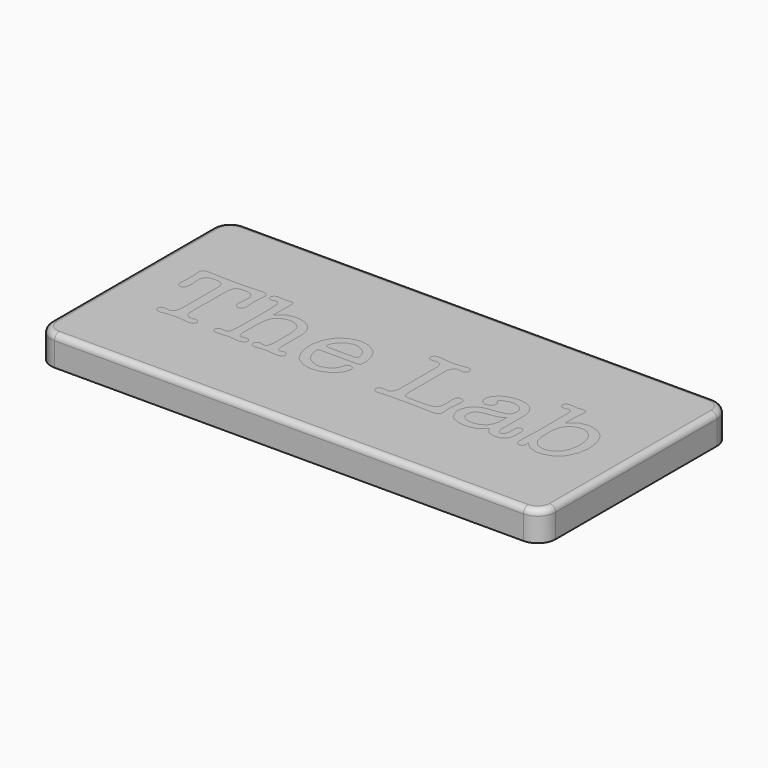
from build123d import *

# Parameters (mm, degrees)
F1_W     = 85
F1_H     = 40
F2_DEPTH = 5
F3_DEPTH = 3
F4_R     = 3
F5_R     = 1


with BuildPart() as f2:
    # F1 (on Top) → F2 (new body)
    with BuildSketch(Plane.XY):
        Rectangle(F1_W, F1_H)
    extrude(amount=-F2_DEPTH)

    # F4
    f4_edges = [f2.edges().sort_by_distance(p)[0] for p in [
        (-42.5, -20, -2.5),
        (-42.5, 20, -2.5),
        (42.5, -20, -2.5),
        (42.5, 20, -2.5),
    ]]
    fillet(f4_edges, radius=F4_R)

    # F5
    f5_edges = [f2.edges().sort_by_distance(p)[0] for p in [
        (0, -20, 0),
        (-41.62132, -19.12132, 0),
        (41.62132, -19.12132, 0),
        (-42.5, 0, 0),
        (42.5, 0, 0),
        (-41.62132, 19.12132, 0),
        (41.62132, 19.12132, 0),
        (0, 20, 0),
    ]]
    fillet(f5_edges, radius=F5_R)


with BuildPart() as f3:
    # F0 (on Top) → F3 (new body)
    with BuildSketch(Plane.XY):
        Polygon((-29.441038, -4.067277), (-29.441038, -3.799942), (-29.421734, 2.67683), (-29.36527, 4.009415), (-29.359733, 4.123766), (-29.073094, 4.942332), (-29.022116, 4.990541), (-28.97251, 5.040198), (-28.265577, 5.286858), (-28.012009, 5.286858), (-27.478711, 5.286858), (-27.197583, 5.286858), (-26.350112, 4.958867), (-25.973913, 4.218864), (-25.973913, 3.972179), (-25.973913, 3.746195), (-26.022122, 3.06545), (-26.031749, 2.952445), (-26.041426, 2.840838), (-26.088264, 2.187626), (-26.088264, 1.932711), (-26.088264, 1.754937), (-25.907771, 1.21887), (-25.501219, 0.980465), (-25.364796, 0.980465), (-25.225629, 0.980465), (-24.808078, 1.176147), (-24.622023, 1.615745), (-24.622023, 1.76182), (-24.622023, 1.976806), (-24.685422, 2.62034), (-24.697842, 2.752649), (-24.707469, 2.854579), (-24.755704, 3.425114), (-24.755704, 3.648329), (-24.755704, 3.857828), (-24.746052, 3.957015), (-24.659234, 4.87619), (-24.650979, 4.961636), (-24.644071, 5.048453), (-24.60277, 5.490794), (-24.60277, 5.667172), (-24.60277, 5.70578), (-24.60277, 5.853201), (-24.841124, 6.291428), (-25.377216, 6.485738), (-25.554991, 6.485738), (-25.827812, 6.485738), (-26.645006, 6.438875), (-26.774546, 6.429248), (-26.920622, 6.419596), (-27.703323, 6.371361), (-28.012009, 6.371361), (-28.289021, 6.36585), (-29.351478, 6.343802), (-29.876521, 6.33415), (-30.051527, 6.33415), (-32.223304, 6.371361), (-32.468591, 6.378245), (-33.347787, 6.401664), (-33.675752, 6.409944), (-33.784616, 6.409944), (-33.947227, 6.419596), (-34.581109, 6.454064), (-34.91324, 6.467805), (-35.023476, 6.467805), (-35.159899, 6.467805), (-35.566426, 6.268009), (-35.746944, 5.817387), (-35.746944, 5.667172), (-35.729037, 5.529377), (-35.684943, 4.978171), (-35.67115, 4.810049), (-35.665639, 4.724603), (-35.632568, 4.067251), (-35.632568, 3.81922), (-35.632568, 3.715868), (-35.647732, 3.40581), (-35.680802, 2.810485), (-35.690454, 2.657526), (-35.697338, 2.556942), (-35.72764, 2.015363), (-35.72764, 1.800428), (-35.72764, 1.63642), (-35.552634, 1.143076), (-35.155759, 0.923976), (-35.023476, 0.923976), (-34.884284, 0.923976), (-34.466733, 1.224382), (-34.280704, 1.899615), (-34.280704, 2.124227), (-34.280704, 2.237232), (-34.295867, 2.572131), (-34.298636, 2.599665), (-34.375801, 3.305226), (-34.379941, 3.334156), (-34.39508, 3.791687), (-34.39508, 3.9529), (-34.39508, 4.203725), (-34.051951, 4.953381), (-33.280248, 5.286858), (-33.022565, 5.286858), (-32.432752, 5.286858), (-32.172326, 5.286858), (-31.389574, 4.949215), (-31.040959, 4.188562), (-31.040959, 3.933596), (-31.023027, 0.828904), (-31.023027, -0.790321), (-31.040959, -2.467381), (-31.040959, -3.799942), (-31.040959, -4.067277), (-31.28071, -4.87205), (-31.816777, -5.228971), (-31.994551, -5.228971), (-32.096507, -5.228971), (-32.401078, -5.189017), (-32.450684, -5.182108), (-32.501662, -5.173853), (-32.793813, -5.133873), (-32.908189, -5.133873), (-33.023937, -5.133873), (-33.367066, -5.285461), (-33.518653, -5.628589), (-33.518653, -5.744362), (-33.518653, -5.868365), (-33.309204, -6.243193), (-32.837907, -6.409944), (-32.679437, -6.409944), (-32.547128, -6.409944), (-32.534733, -6.405804), (-32.447916, -6.392037), (-32.413473, -6.392037), (-31.461253, -6.258357), (-31.368898, -6.24459), (-30.503495, -6.181192), (-30.183811, -6.181192), (-29.906824, -6.181192), (-29.074466, -6.24459), (-28.984905, -6.258357), (-28.050592, -6.392037), (-28.021686, -6.392037), (-27.933472, -6.405804), (-27.916937, -6.409944), (-27.802561, -6.409944), (-27.642693, -6.409944), (-27.160398, -6.243193), (-26.945412, -5.868365), (-26.945412, -5.744362), (-26.945412, -5.643753), (-27.096999, -5.344719), (-27.127302, -5.314417), (-27.157604, -5.284089), (-27.44978, -5.133873), (-27.555876, -5.133873), (-27.657857, -5.133873), (-27.962403, -5.173853), (-28.012009, -5.182108), (-28.062987, -5.189017), (-28.355163, -5.228971), (-28.469514, -5.228971), (-28.6528, -5.228971), (-29.198494, -4.87205), align=None)
        Polygon((-20.449337, 2.257908), (-20.373569, 5.952439), (-20.373569, 5.991022), (-20.373569, 6.109538), (-20.483805, 6.462319), (-20.730464, 6.619392), (-20.811769, 6.619392), (-20.90961, 6.619392), (-21.200364, 6.58909), (-21.24997, 6.582181), (-21.300973, 6.57667), (-21.608288, 6.543624), (-21.726779, 6.543624), (-21.907297, 6.543624), (-22.447504, 6.57667), (-22.506737, 6.582181), (-22.599091, 6.591859), (-22.993223, 6.638696), (-23.154437, 6.638696), (-23.283977, 6.638696), (-23.669803, 6.480226), (-23.707039, 6.448501), (-23.745622, 6.416827), (-23.935766, 6.105398), (-23.935766, 5.991022), (-23.935766, 5.878043), (-23.774552, 5.534889), (-23.410723, 5.38193), (-23.288092, 5.38193), (-23.195788, 5.38193), (-22.914661, 5.428767), (-22.869169, 5.438445), (-22.825075, 5.448071), (-22.570135, 5.496306), (-22.469551, 5.496306), (-22.384106, 5.496306), (-22.126397, 5.308905), (-21.955531, 4.869307), (-21.936253, 4.743882), (-21.916974, 4.618482), (-21.850807, 3.465068), (-21.821851, 1.716354), (-21.821851, 1.133424), (-21.841155, -2.277186), (-21.84527, -2.574874), (-21.882506, -3.764102), (-21.947276, -4.550969), (-21.963812, -4.64881), (-21.981719, -4.745279), (-22.119539, -5.082896), (-22.311081, -5.228971), (-22.374454, -5.228971), (-22.475063, -5.228971), (-22.776866, -5.180736), (-22.830587, -5.172481), (-22.849891, -5.165573), (-23.103459, -5.133873), (-23.193019, -5.133873), (-23.329443, -5.133873), (-23.735944, -5.275834), (-23.916462, -5.598287), (-23.916462, -5.70578), (-23.916462, -5.833923), (-23.722203, -6.219774), (-23.283977, -6.392037), (-23.136504, -6.392037), (-22.925659, -6.392037), (-22.291777, -6.327267), (-22.165005, -6.314872), (-22.069933, -6.30522), (-21.493912, -6.258357), (-21.269249, -6.258357), (-20.990916, -6.258357), (-20.1517, -6.320384), (-20.030415, -6.33415), (-19.942226, -6.343802), (-19.430975, -6.392037), (-19.231153, -6.392037), (-19.074054, -6.392037), (-18.602757, -6.223914), (-18.391937, -5.849087), (-18.391937, -5.725058), (-18.391937, -5.613451), (-18.544896, -5.281346), (-18.887999, -5.133873), (-19.002426, -5.133873), (-19.093358, -5.133873), (-19.366205, -5.189017), (-19.411671, -5.201412), (-19.458534, -5.212436), (-19.734149, -5.267554), (-19.84027, -5.267554), (-19.932599, -5.267554), (-20.208164, -5.033289), (-20.377683, -4.488967), (-20.392847, -4.334612), (-20.396987, -4.305681), (-20.407986, -3.933622), (-20.412126, -3.290062), (-20.412126, -3.076473), (-20.412126, -2.715412), (-20.409357, -2.669946), (-20.392847, -2.428799), (-20.392847, -2.333701), (-20.373569, -0.962558), (-20.3708, -0.702107), (-20.24126, 0.386512), (-19.958761, 1.187196), (-19.878827, 1.304315), (-19.764451, 1.476578), (-18.988634, 2.07739), (-18.012969, 2.333701), (-17.687747, 2.333701), (-17.392879, 2.333701), (-16.506749, 2.087042), (-15.837052, 1.508252), (-15.744723, 1.342898), (-15.681325, 1.232662), (-15.459481, 0.357581), (-15.362987, -0.860577), (-15.362987, -1.26713), (-15.362987, -2.295119), (-15.382291, -3.115056), (-15.386456, -3.225292), (-15.401569, -3.786175), (-15.401569, -4.010787), (-15.40571, -4.216121), (-15.558668, -4.938192), (-15.885262, -5.24825), (-15.992754, -5.24825), (-16.067176, -5.24825), (-16.28902, -5.20004), (-16.316604, -5.19176), (-16.364839, -5.175225), (-16.688689, -5.096688), (-16.81132, -5.096688), (-16.920185, -5.096688), (-17.245406, -5.238623), (-17.278452, -5.267554), (-17.311548, -5.295113), (-17.478273, -5.581752), (-17.478273, -5.686476), (-17.478273, -5.803621), (-17.288129, -6.157773), (-17.249546, -6.190844), (-17.21231, -6.223914), (-16.820972, -6.392037), (-16.67764, -6.392037), (-16.592194, -6.392037), (-16.335908, -6.363081), (-15.820492, -6.295568), (-15.686837, -6.277661), (-15.642742, -6.270777), (-15.116327, -6.239078), (-14.924811, -6.239078), (-14.635378, -6.239078), (-13.763092, -6.317615), (-13.629437, -6.33415), (-13.550875, -6.343802), (-13.087858, -6.392037), (-12.905969, -6.392037), (-12.735077, -6.392037), (-12.221083, -6.233566), (-11.992331, -5.879389), (-11.992331, -5.762269), (-11.992331, -5.643753), (-12.168734, -5.290972), (-12.565609, -5.133873), (-12.69652, -5.133873), (-12.768174, -5.133873), (-12.983159, -5.149037), (-13.001041, -5.153177), (-13.049301, -5.165573), (-13.330377, -5.228971), (-13.439242, -5.228971), (-13.523316, -5.228971), (-13.774115, -4.990567), (-13.922934, -4.435221), (-13.935354, -4.27675), (-13.939495, -4.257446), (-13.949121, -3.910178), (-13.953287, -3.256991), (-13.953287, -3.039262), (-13.953287, 0.142621), (-13.953287, 0.487147), (-14.201318, 1.519301), (-14.780082, 2.445334), (-14.944065, 2.599665), (-15.109444, 2.755392), (-16.097504, 3.301111), (-17.205427, 3.533978), (-17.573396, 3.533978), (-17.919243, 3.533978), (-18.954166, 3.303854), (-19.05889, 3.257017), (-19.16364, 3.211525), (-20.32254, 2.379193), align=None)
        Polygon((-2.581656, -0.934974), (-2.581656, -0.714502), (-2.581656, -0.292811), (-2.872486, 0.97221), (-3.550412, 2.133905), (-3.743452, 2.333701), (-3.937762, 2.533523), (-5.06349, 3.233572), (-6.288532, 3.533978), (-6.696456, 3.533978), (-7.15391, 3.533978), (-8.525256, 3.172943), (-9.762744, 2.328215), (-9.97204, 2.08567), (-10.18286, 1.844523), (-10.916082, 0.419608), (-11.230254, -1.159637), (-11.230254, -1.686052), (-11.230254, -2.194535), (-10.935386, -3.721405), (-10.24636, -5.071872), (-10.049256, -5.296484), (-9.852152, -5.519725), (-8.662924, -6.302451), (-7.316724, -6.638696), (-6.867398, -6.638696), (-6.4897, -6.638696), (-5.35432, -6.397549), (-4.22021, -5.836691), (-4.00939, -5.676824), (-3.79984, -5.51561), (-3.066796, -4.646066), (-2.752598, -3.768242), (-2.752598, -3.476092), (-2.752598, -3.339668), (-2.928874, -2.933141), (-3.325876, -2.752649), (-3.456686, -2.752649), (-3.558794, -2.752649), (-3.86334, -2.867), (-4.064508, -3.132963), (-4.086606, -3.210154), (-4.257294, -3.762731), (-4.293108, -3.879875), (-4.588002, -4.404893), (-5.04698, -4.84726), (-5.162804, -4.924425), (-5.278628, -5.000219), (-6.313424, -5.38193), (-6.696456, -5.38193), (-6.99008, -5.38193), (-7.867904, -5.143525), (-8.687816, -4.58818), (-8.829802, -4.429709), (-8.973058, -4.269842), (-9.473184, -3.357601), (-9.686798, -2.375052), (-9.686798, -2.048459), (-9.686798, -1.99611), (-9.623552, -1.840382), (-9.611106, -1.829333), (-9.59866, -1.816938), (-9.368536, -1.76182), (-9.287256, -1.76182), (-3.229356, -1.76182), (-3.095752, -1.76182), (-2.693416, -1.626768), (-2.676652, -1.600606), (-2.661666, -1.573022), align=None)
        Polygon((-9.496552, -0.285953), (-9.496552, -0.219786), (-9.496552, 0.007569), (-9.277604, 0.688315), (-8.766302, 1.375969), (-8.620252, 1.504112), (-8.474202, 1.633652), (-7.696962, 2.084273), (-6.932168, 2.275815), (-6.677152, 2.275815), (-6.437376, 2.275815), (-5.715254, 2.091182), (-5.01396, 1.657096), (-4.88569, 1.533042), (-4.758944, 1.410437), (-4.315206, 0.724154), (-4.12369, 0.017221), (-4.12369, -0.219786), (-4.12369, -0.285953), (-4.425442, -0.48575), (-4.524756, -0.48575), (-9.077706, -0.48575), (-9.182608, -0.48575), align=None, mode=Mode.SUBTRACT)
        Polygon((7.286244, -3.795801), (7.286244, -3.572561), (7.286244, 3.857828), (7.286244, 4.122395), (7.529068, 4.916145), (8.07466, 5.267554), (8.257794, 5.267554), (8.351774, 5.267554), (8.635746, 5.235829), (8.65886, 5.228971), (8.712708, 5.219319), (9.043416, 5.172481), (9.172956, 5.172481), (9.269222, 5.172481), (9.5631, 5.322672), (9.592056, 5.352999), (9.619488, 5.383301), (9.762744, 5.689219), (9.762744, 5.800852), (9.762744, 5.926252), (9.54786, 6.30108), (9.06526, 6.467805), (8.905494, 6.467805), (8.849106, 6.467805), (8.683752, 6.452667), (8.65886, 6.448501), (7.78256, 6.33415), (7.661402, 6.319012), (6.867652, 6.239078), (6.563106, 6.239078), (6.287262, 6.239078), (5.463032, 6.319012), (5.324094, 6.33415), (4.31546, 6.448501), (4.28625, 6.452667), (4.100322, 6.467805), (4.028694, 6.467805), (3.874516, 6.467805), (3.414268, 6.30108), (3.210306, 5.926252), (3.210306, 5.800852), (3.210306, 5.697474), (3.352038, 5.383301), (3.380994, 5.352999), (3.40868, 5.322672), (3.695446, 5.172481), (3.800094, 5.172481), (3.915918, 5.172481), (4.264406, 5.219319), (4.31546, 5.228971), (4.337558, 5.235829), (4.614418, 5.267554), (4.715002, 5.267554), (4.896866, 5.267554), (5.442712, 4.916145), (5.686552, 4.122395), (5.686552, 3.857828), (5.686552, -3.782035), (5.686552, -4.04937), (5.442712, -4.852772), (4.896866, -5.209667), (4.715002, -5.209667), (4.308602, -5.169713), (4.257294, -5.162829), (4.206494, -5.154549), (3.914394, -5.114595), (3.800094, -5.114595), (3.688334, -5.114595), (3.35788, -5.266182), (3.210306, -5.609311), (3.210306, -5.725058), (3.210306, -5.853227), (3.40868, -6.237681), (3.85953, -6.409944), (4.00939, -6.409944), (4.139184, -6.409944), (4.529074, -6.378245), (4.59105, -6.372733), (4.65328, -6.36585), (4.983734, -6.33415), (5.114544, -6.33415), (5.292344, -6.327267), (6.256782, -6.295568), (6.638544, -6.295568), (9.687052, -6.295568), (11.116056, -6.314872), (11.274552, -6.317615), (12.44854, -6.349314), (12.525756, -6.353454), (12.640056, -6.358966), (13.183108, -6.392037), (13.402056, -6.392037), (13.584174, -6.392037), (14.129766, -6.177051), (14.373606, -5.693359), (14.373606, -5.533517), (14.373606, -5.357139), (14.332458, -4.830724), (14.3256, -4.743907), (14.317218, -4.655693), (14.27861, -4.149954), (14.27861, -3.9529), (14.27861, -3.750335), (14.3256, -3.145384), (14.335252, -3.076473), (14.468856, -2.104974), (14.47165, -2.082927), (14.487906, -1.833474), (14.487906, -1.743913), (14.487906, -1.600606), (14.286738, -1.172007), (13.836396, -0.981862), (13.687552, -0.981862), (13.561822, -0.981862), (13.185902, -1.189939), (13.020294, -1.661211), (13.020294, -1.819707), (13.020294, -2.01262), (13.052044, -2.59141), (13.059156, -2.715412), (13.061696, -2.778811), (13.078206, -3.214268), (13.078206, -3.381019), (13.078206, -3.602888), (12.968224, -4.26847), (12.713208, -4.741139), (12.640056, -4.800397), (12.567158, -4.858283), (11.982704, -5.064989), (11.160252, -5.153177), (10.887202, -5.153177), (9.210294, -5.153177), (9.010396, -5.153177), (8.41248, -5.143525), (8.008366, -5.120107), (7.9629, -5.114595), (7.916418, -5.107711), (7.542784, -4.93268), (7.515352, -4.905121), (7.47649, -4.869307), (7.34314, -4.46692), align=None)
        Polygon((23.600918, -6.562903), (23.91664, -6.562903), (24.124666, -6.562903), (24.751538, -6.448527), (25.355296, -6.105398), (25.723088, -5.533517), (25.855422, -4.934077), (25.85974, -4.734255), (25.879044, -3.648354), (25.879044, -3.553282), (25.879044, -3.381019), (25.721818, -2.865628), (25.367488, -2.638273), (25.250394, -2.638273), (25.138888, -2.638273), (24.806656, -2.78986), (24.660606, -3.132963), (24.660606, -3.248711), (24.660606, -4.181653), (24.660606, -4.409034), (24.492712, -5.095291), (24.117808, -5.401234), (23.993856, -5.401234), (23.88616, -5.401234), (23.563834, -5.233111), (23.36419, -4.844491), (23.346156, -4.734255), (23.339044, -4.705325), (23.31593, -4.375963), (23.307294, -3.830269), (23.307294, -3.648354), (23.307294, 0.200508), (23.307294, 0.565709), (23.089616, 1.659839), (22.43963, 2.700249), (21.356066, 3.325901), (20.219416, 3.533978), (19.840194, 3.533978), (19.491706, 3.533978), (18.447258, 3.343834), (17.45361, 2.898699), (17.278858, 2.771927), (17.102328, 2.645156), (16.485108, 1.934083), (16.22171, 1.191311), (16.22171, 0.94328), (16.22171, 0.74897), (16.498824, 0.1619), (16.555212, 0.104064), (16.61033, 0.047549), (17.17548, -0.237719), (17.383252, -0.237719), (17.544796, -0.237719), (18.030952, -0.03241), (18.077688, 0.008941), (18.123408, 0.050292), (18.354802, 0.480263), (18.354802, 0.637337), (18.354802, 0.791693), (18.13179, 1.253338), (18.087594, 1.285011), (18.058638, 1.304315), (17.916652, 1.429715), (17.916652, 1.476578), (17.916652, 1.568882), (18.153634, 1.844523), (18.201894, 1.876196), (18.325846, 1.95613), (19.400774, 2.353005), (19.80184, 2.353005), (20.016724, 2.353005), (20.665694, 2.241398), (21.225256, 1.979549), (21.316188, 1.905127), (21.40585, 1.83073), (21.722588, 1.374572), (21.85924, 0.850951), (21.85924, 0.675945), (21.85924, 0.503682), (21.737828, -0.013106), (21.45411, -0.396189), (21.3741, -0.447167), (21.293074, -0.49817), (20.609306, -0.718668), (19.553682, -0.895045), (19.287744, -0.923976), (19.100546, -0.946023), (18.352262, -1.045235), (17.854422, -1.127912), (17.7927, -1.143076), (17.730724, -1.156868), (16.991838, -1.466926), (16.906494, -1.515161), (16.680434, -1.637792), (15.892272, -2.46601), (15.554706, -3.495396), (15.554706, -3.838524), (15.554706, -4.125163), (15.78483, -4.986426), (16.323818, -5.749874), (16.477996, -5.876646), (16.631158, -6.003417), (17.555718, -6.447155), (18.597372, -6.638696), (18.94459, -6.638696), (19.393916, -6.638696), (20.744434, -6.281801), (21.830284, -5.448071), (21.992844, -5.209667), (22.05228, -5.434305), (22.65426, -6.223914), align=None)
        Polygon((21.822156, -1.420063), (21.802852, -2.771927), (21.798534, -2.974492), (21.604224, -3.8592), (21.171662, -4.570273), (21.05025, -4.686021), (20.927568, -4.801768), (20.180808, -5.206924), (19.324828, -5.38193), (19.04111, -5.38193), (18.839688, -5.38193), (18.237454, -5.277206), (17.708372, -5.031918), (17.621758, -4.963008), (17.533366, -4.892726), (17.22755, -4.46692), (17.09674, -3.980459), (17.09674, -3.819246), (17.09674, -3.663518), (17.231868, -3.197733), (17.639538, -2.723718), (18.317718, -2.3971), (19.028918, -2.241398), (19.26844, -2.21935), (19.468338, -2.200046), (20.285456, -2.095297), (20.85721, -1.978177), (20.93595, -1.953387), (21.013166, -1.927174), (21.751544, -1.483436), align=None, mode=Mode.SUBTRACT)
        Polygon((28.92044, 5.574868), (28.946602, 5.838063), (28.946602, 6.105398), (28.946602, 6.205982), (28.8417, 6.506413), (28.605988, 6.638696), (28.527502, 6.638696), (28.399232, 6.638696), (28.018994, 6.583604), (27.955494, 6.572555), (27.892502, 6.561531), (27.51328, 6.505042), (27.365706, 6.505042), (27.2542, 6.505042), (26.920952, 6.538087), (26.869644, 6.543624), (26.41219, 6.600114), (26.386028, 6.604229), (26.127202, 6.619392), (26.031952, 6.619392), (25.888696, 6.619392), (25.459944, 6.462319), (25.269952, 6.109538), (25.269952, 5.991022), (25.269952, 5.878043), (25.430988, 5.534889), (25.794716, 5.38193), (25.917652, 5.38193), (25.998678, 5.38193), (26.244296, 5.413604), (26.279856, 5.419141), (26.353008, 5.432908), (26.650696, 5.496306), (26.774902, 5.496306), (26.876756, 5.496306), (27.182572, 5.289601), (27.203146, 5.24825), (27.223974, 5.206924), (27.342338, 4.414545), (27.346656, 4.296029), (27.38374, -0.790321), (27.346656, -2.715412), (27.288744, -4.181653), (27.28468, -4.26433), (27.26944, -4.880331), (27.26944, -5.114595), (27.265122, -5.136642), (27.251406, -5.415001), (27.251406, -5.51561), (27.251406, -5.693359), (27.41676, -6.229426), (27.79141, -6.467831), (27.91714, -6.467831), (28.040838, -6.467831), (28.417266, -6.295568), (28.58389, -5.909716), (28.58389, -5.781548), (28.58389, -5.652033), (28.520644, -5.263413), (28.508452, -5.172481), (28.654502, -5.416372), (29.656278, -6.270777), (30.923738, -6.638696), (31.347156, -6.638696), (31.799022, -6.638696), (33.157668, -6.279032), (34.358072, -5.439816), (34.556446, -5.201412), (34.755074, -4.961636), (35.449256, -3.517443), (35.746944, -1.885848), (35.746944, -1.342898), (35.746944, -0.844042), (35.465766, 0.64836), (34.809938, 1.978177), (34.62274, 2.200046), (34.435034, 2.423287), (33.303718, 3.200502), (32.021018, 3.533978), (31.59379, 3.533978), (31.224474, 3.533978), (30.117796, 3.263875), (30.012894, 3.210154), (29.908246, 3.156382), (28.876244, 2.21935), (28.775406, 2.08567), (28.7782, 2.448077), (28.82646, 4.109974), align=None)
        Polygon((28.9052, 0.212928), (28.927044, 0.313487), (28.958794, 0.454076), (29.249624, 1.083818), (29.720794, 1.621257), (29.842206, 1.714983), (29.962094, 1.808683), (30.608524, 2.136648), (31.247588, 2.275815), (31.461456, 2.275815), (31.745174, 2.275815), (32.6009, 2.022272), (33.34766, 1.428344), (33.470596, 1.257452), (33.591754, 1.087958), (34.020506, 0.046152), (34.20364, -1.152728), (34.20364, -1.552346), (34.20364, -1.945081), (34.0106, -3.12608), (33.560004, -4.169258), (33.431988, -4.342892), (33.302194, -4.515155), (32.524954, -5.121478), (31.64078, -5.38193), (31.347156, -5.38193), (30.99816, -5.38193), (29.954982, -5.033289), (29.1973, -4.223004), (29.099256, -3.991483), (29.048456, -3.872967), (28.869132, -2.991053), (28.79344, -1.79766), (28.79344, -1.400785), (28.79344, -0.997001), align=None, mode=Mode.SUBTRACT)
    extrude(amount=-F3_DEPTH)


solid = Compound([f2.part, f3.part])
